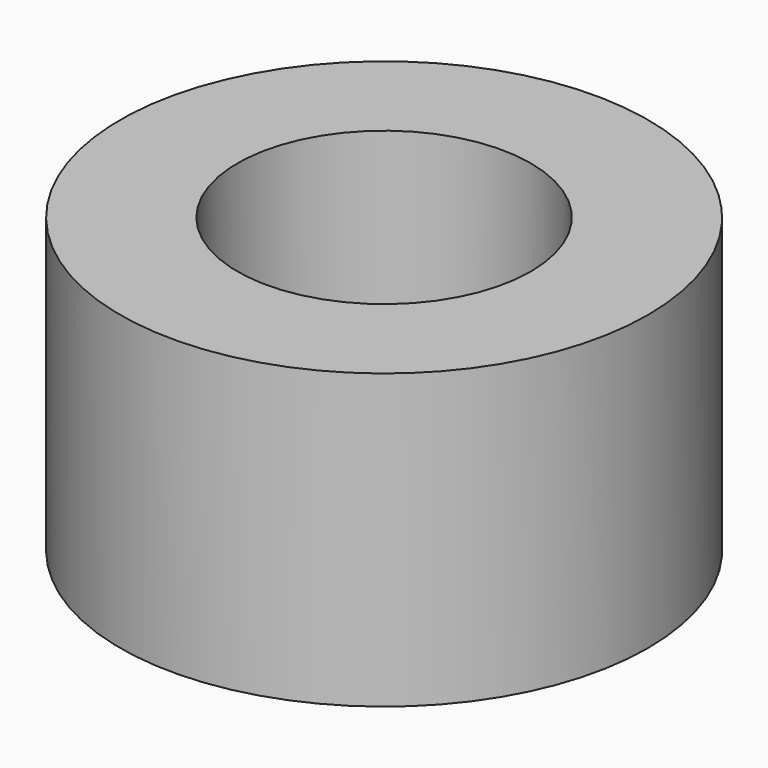
from build123d import *

# Parameters (mm, degrees)
CYLINDER009_R     = 2.5
CYLINDER009_DEPTH = 5
CYLINDER011_R     = 4.5
CYLINDER011_DEPTH = 5


with BuildPart() as interior002:
    # Cylinder009 → Cylinder009 (new body)
    with BuildSketch(Plane.XY):
        Circle(CYLINDER009_R)
    extrude(amount=CYLINDER009_DEPTH)


with BuildPart() as interior003:
    # Cylinder011 → Cylinder011 (new body)
    with BuildSketch(Plane.XY):
        Circle(CYLINDER011_R)
    extrude(amount=CYLINDER011_DEPTH)

    # Cut005: cut Interior002
    add(interior002.part, mode=Mode.SUBTRACT)


solid = interior003.part
